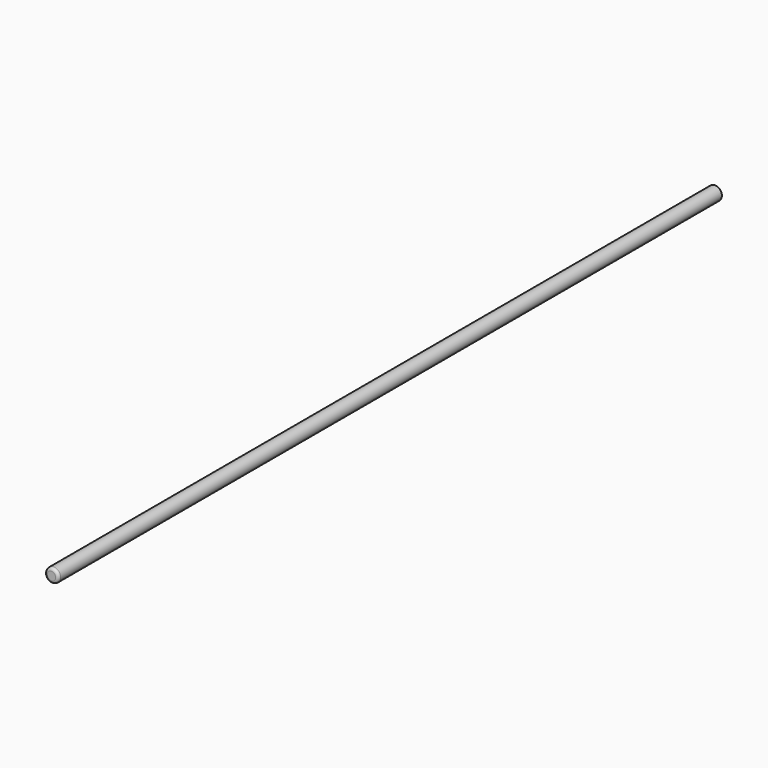
from build123d import *

# Parameters (mm, degrees)
F0_R     = 2.5
F1_DEPTH = 300
F2_R     = 1


with BuildPart() as f1:
    # F0 (on Front) → F1 (new body)
    with BuildSketch(Plane.XZ):
        with Locations((-95.524505, 39.615415)):
            Circle(F0_R)
    extrude(amount=F1_DEPTH)

    # F2
    f2_edges = [f1.edges().sort_by_distance(p)[0] for p in [
        (-98.024505, -300, 39.615415),
    ]]
    fillet(f2_edges, radius=F2_R)


solid = f1.part
